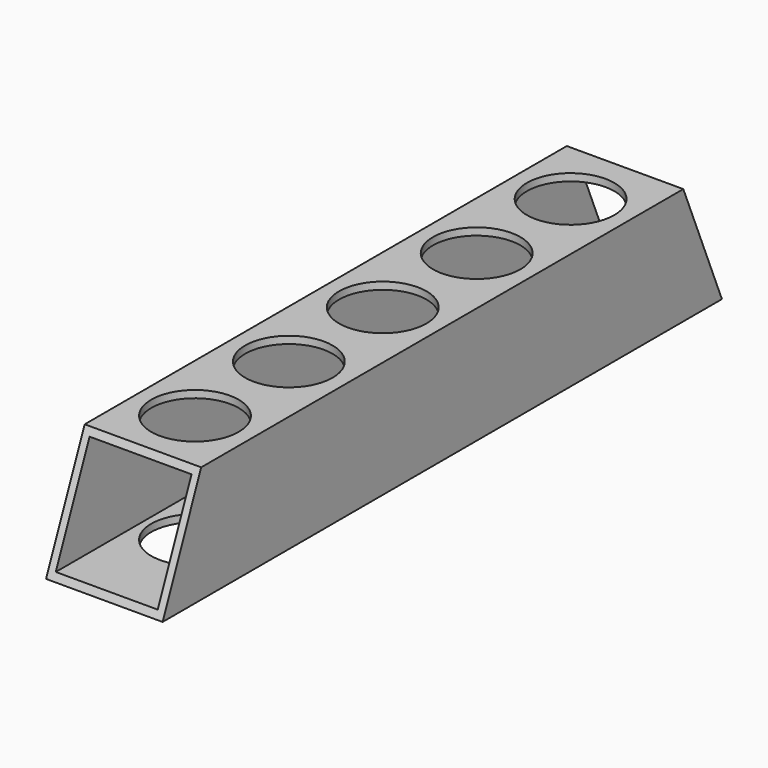
from build123d import *

# Parameters (mm, degrees)
F1_W     = 50.8
F1_H     = 50.8
F1_W_2   = 44.45
F1_H_2   = 44.45
F2_DEPTH = 304.8
F4_DEPTH = 50.801
F6_DEPTH = 127
F7_R     = 19.05
F8_DEPTH = 50.8


with BuildPart() as f2:
    # F1 (on face) → F2 (new body)
    with BuildSketch(Plane.XZ):
        Rectangle(F1_W, F1_H)
        Rectangle(F1_W_2, F1_H_2, mode=Mode.SUBTRACT)
    extrude(amount=F2_DEPTH)

    # F3 (on face) → F4 (cut, through all)
    with BuildSketch(Plane.YZ.offset(25.4)):
        Polygon((-283.757951, 25.4), (-304.8, 25.4), (-304.8, -25.4), align=None)
    extrude(amount=-F4_DEPTH, mode=Mode.SUBTRACT)

    # F5 (on face) → F6 (cut)
    with BuildSketch(Plane.YZ.offset(25.4)):
        Polygon((0, -25.4), (0, 25.4), (-21.042049, 25.4), align=None)
    extrude(amount=-F6_DEPTH, mode=Mode.SUBTRACT)

    # F7 (on face) → F8 (cut)
    with BuildSketch(Plane.XY.offset(25.4)):
        with Locations((0, -50.709249)):
            Circle(F7_R)
        with Locations((0, -101.885025)):
            Circle(F7_R)
        with Locations((0, -153.060801)):
            Circle(F7_R)
        with Locations((0, -204.236577)):
            Circle(F7_R)
        with Locations((0, -255.412352)):
            Circle(F7_R)
    extrude(amount=-F8_DEPTH, mode=Mode.SUBTRACT)


solid = f2.part
